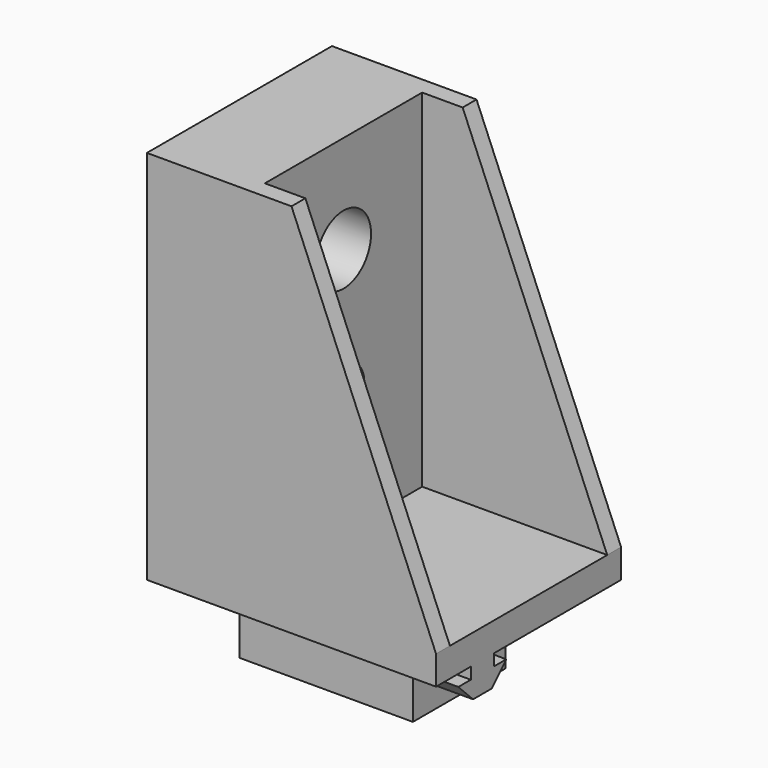
from build123d import *

# Parameters (mm, degrees)
SKETCH_W        = 40
SKETCH_H        = 85
PAD_DEPTH       = 50
POCKET_DEPTH    = 50
POCKET001_DEPTH = 20
SKETCH003_W     = 16
SKETCH003_H     = 26
POCKET002_DEPTH = 18
SKETCH004_R     = 2
POCKET003_DEPTH = 4
SKETCH005_R     = 2
POCKET004_DEPTH = 4
POCKET005_DEPTH = 2
SKETCH007_W     = 34
SKETCH007_H     = 60
POCKET006_DEPTH = 32
SKETCH008_R     = 4.5
SKETCH008_R_2   = 5.95
POCKET007_DEPTH = 18
SKETCH009_R     = 10.85
POCKET008_DEPTH = 8
POCKET009_DEPTH = 40.001


with BuildPart() as part:
    # Sketch → Pad (new body)
    with BuildSketch(Plane.YZ):
        Rectangle(SKETCH_W, SKETCH_H)
    extrude(amount=PAD_DEPTH)

    # Sketch001 (on Face6 of Pad) → Pocket (cut)
    with BuildSketch(Plane.YZ.offset(50)):
        Polygon((-20, -22.5), (-20, -42.5), (0, -42.5), (0, -22.5), (-7.51604, -22.5), (-7.51604, -24.5), (-4.81604, -24.5), (-8, -27.68), (-12, -27.68), (-15.18396, -24.5), (-12.48396, -24.5), (-12.48396, -22.5), align=None)
    extrude(amount=-POCKET_DEPTH, mode=Mode.SUBTRACT)

    # Sketch002 (on Face3 of Pocket) → Pocket001 (cut)
    with BuildSketch(Plane.ZX.offset(20)):
        Polygon((-22.5, 50), (-42.5, 50), (-42.5, 30), (-22.5, 30), (-22.5, 37.52), (-24.5, 37.52), (-24.5, 34.82), (-27.68, 38), (-27.68, 42), (-24.5, 45.18), (-24.5, 42.48), (-22.5, 42.48), align=None)
    extrude(amount=-POCKET001_DEPTH, mode=Mode.SUBTRACT)

    # Sketch003 (on Face3 of Pocket001) → Pocket002 (cut)
    with BuildSketch(Plane.ZX.offset(20)):
        with Locations((-32.5, 13)):
            Rectangle(SKETCH003_W, SKETCH003_H)
    extrude(amount=-POCKET002_DEPTH, mode=Mode.SUBTRACT)

    # Sketch004 (on Face30 of Pocket002) → Pocket003 (cut)
    with BuildSketch(Plane.ZX.offset(2)):
        with Locations((-32.5, 13)):
            Circle(SKETCH004_R)
    extrude(amount=-POCKET003_DEPTH, mode=Mode.SUBTRACT)

    # Sketch005 (on Face8 of Pocket003) → Pocket004 (cut)
    with BuildSketch(Plane(origin=(26, 0, 0), x_dir=(0, 1, 0), z_dir=(-1, 0, 0))):
        with Locations((11, 32.5)):
            Circle(SKETCH005_R)
    extrude(amount=-POCKET004_DEPTH, mode=Mode.SUBTRACT)

    # Sketch006 (on Face10 of Pocket004) → Pocket005 (cut)
    with BuildSketch(Plane.YX.offset(42.5)):
        Polygon((2.005691, 0), (20, 26), (20, 0), align=None)
    extrude(amount=-POCKET005_DEPTH, mode=Mode.SUBTRACT)

    # Sketch007 (on Face5 of Pocket005) → Pocket006 (cut)
    with BuildSketch(Plane.YZ.offset(50)):
        with Locations((0, 12.5)):
            Rectangle(SKETCH007_W, SKETCH007_H)
    extrude(amount=-POCKET006_DEPTH, mode=Mode.SUBTRACT)

    # Sketch008 (on Face6 of Pocket006) → Pocket007 (cut)
    with BuildSketch(Plane.YZ.offset(18)):
        with Locations((0, 3.5)):
            Circle(SKETCH008_R)
        with Locations((0, 25.5)):
            Circle(SKETCH008_R_2)
    extrude(amount=-POCKET007_DEPTH, mode=Mode.SUBTRACT)

    # Sketch009 (on Face2 of Pocket007) → Pocket008 (cut)
    with BuildSketch(Plane(origin=(0, 0, 0), x_dir=(0, 1, 0), z_dir=(-1, 0, 0))):
        with Locations((0, -3.5)):
            Circle(SKETCH009_R)
    extrude(amount=-POCKET008_DEPTH, mode=Mode.SUBTRACT)

    # Sketch010 (on Face3 of Pocket008) → Pocket009 (cut, through all)
    with BuildSketch(Plane.ZX.offset(20)):
        Polygon((-17.5, 50), (42.5, 50), (42.5, 25), align=None)
    extrude(amount=-POCKET009_DEPTH, mode=Mode.SUBTRACT)


solid = part.part
